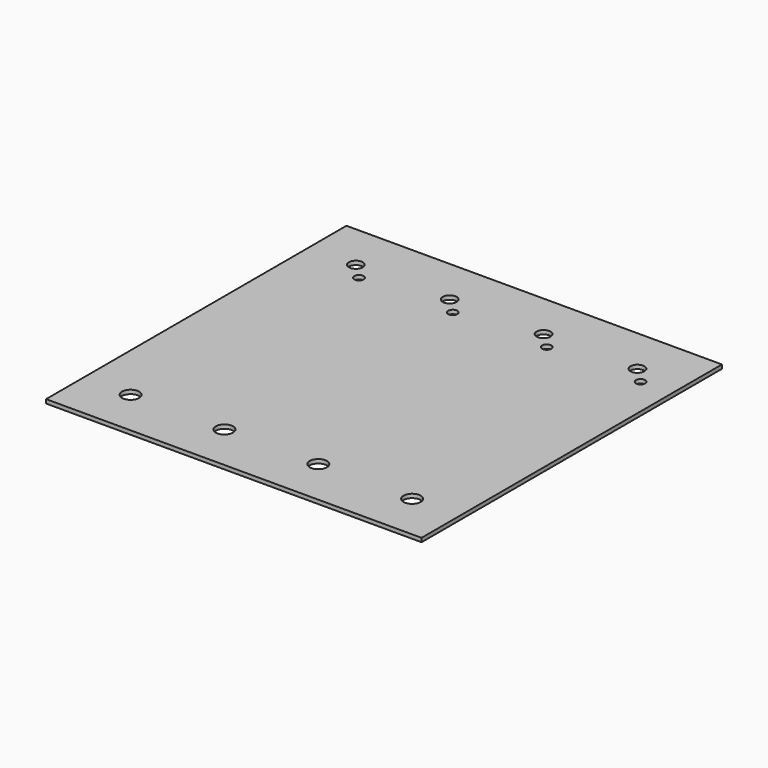
from build123d import *

# Parameters (mm, degrees)
SKETCH_W   = 609.6
SKETCH_H   = 609.6
SKETCH_R   = 11.303
SKETCH_R_2 = 7.493
SKETCH_R_3 = 13.97
PAD_DEPTH  = 6.35


with BuildPart() as part:
    # Sketch → Pad (new body)
    with BuildSketch(Plane(origin=(-304.8, -304.8, 6.35), x_dir=(1, 0, 0), z_dir=(0, 0, 1))):
        Rectangle(SKETCH_W, SKETCH_H)
        with Locations((-228.6, 228.6)):
            Circle(SKETCH_R, mode=Mode.SUBTRACT)
        with Locations((-76.2, 228.6)):
            Circle(SKETCH_R, mode=Mode.SUBTRACT)
        with Locations((76.2, 228.6)):
            Circle(SKETCH_R, mode=Mode.SUBTRACT)
        with Locations((228.6, 228.6)):
            Circle(SKETCH_R, mode=Mode.SUBTRACT)
        with Locations((-203.2, 203.2)):
            Circle(SKETCH_R_2, mode=Mode.SUBTRACT)
        with Locations((-50.8, 203.2)):
            Circle(SKETCH_R_2, mode=Mode.SUBTRACT)
        with Locations((101.6, 203.2)):
            Circle(SKETCH_R_2, mode=Mode.SUBTRACT)
        with Locations((254, 203.2)):
            Circle(SKETCH_R_2, mode=Mode.SUBTRACT)
        with Locations((-228.6, -228.6)):
            Circle(SKETCH_R_3, mode=Mode.SUBTRACT)
        with Locations((-76.2, -228.6)):
            Circle(SKETCH_R_3, mode=Mode.SUBTRACT)
        with Locations((76.2, -228.6)):
            Circle(SKETCH_R_3, mode=Mode.SUBTRACT)
        with Locations((228.6, -228.6)):
            Circle(SKETCH_R_3, mode=Mode.SUBTRACT)
    extrude(amount=PAD_DEPTH)


solid = part.part
